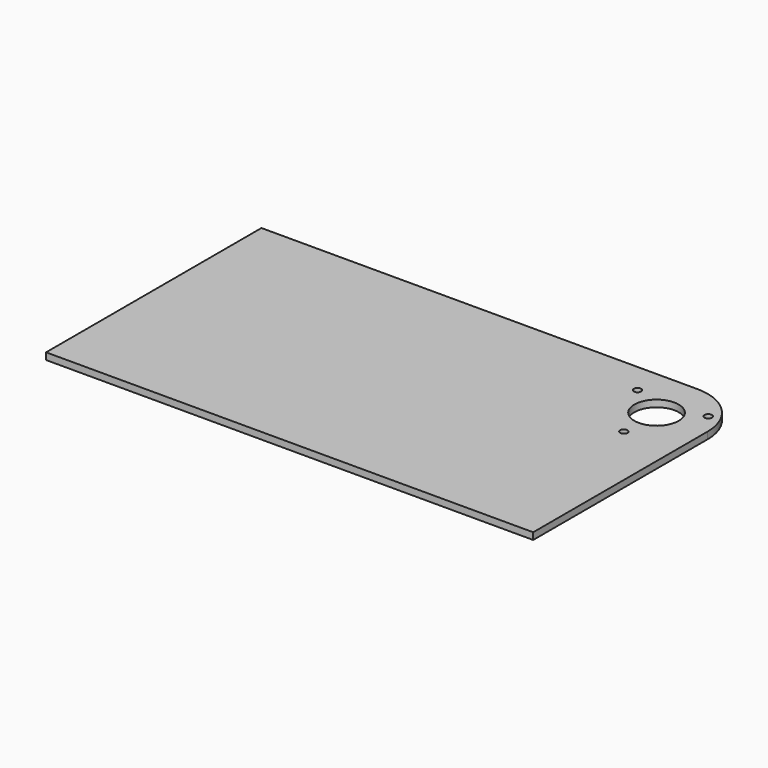
from build123d import *

# Parameters (mm, degrees)
F0_W     = 226.934583
F0_H     = 125.4125
F0_R     = 1.7272
F0_R_2   = 10.31875
F1_DEPTH = 3.175
F2_R     = 23.8125


with BuildPart() as f1:
    # F0 (on Top) → F1 (new body)
    with BuildSketch(Plane.XY):
        with Locations((-113.467292, -62.70625)):
            Rectangle(F0_W, F0_H)
        with Locations((-23.8125, -42.8625)):
            Circle(F0_R, mode=Mode.SUBTRACT)
        with Locations((-23.8125, -23.8125)):
            Circle(F0_R_2, mode=Mode.SUBTRACT)
        with Locations((-40.310284, -14.2875)):
            Circle(F0_R, mode=Mode.SUBTRACT)
        with Locations((-7.314716, -14.2875)):
            Circle(F0_R, mode=Mode.SUBTRACT)
    extrude(amount=F1_DEPTH)

    # F2
    f2_edges = [f1.edges().sort_by_distance(p)[0] for p in [
        (0, 0, 1.5875),
    ]]
    fillet(f2_edges, radius=F2_R)


solid = f1.part
